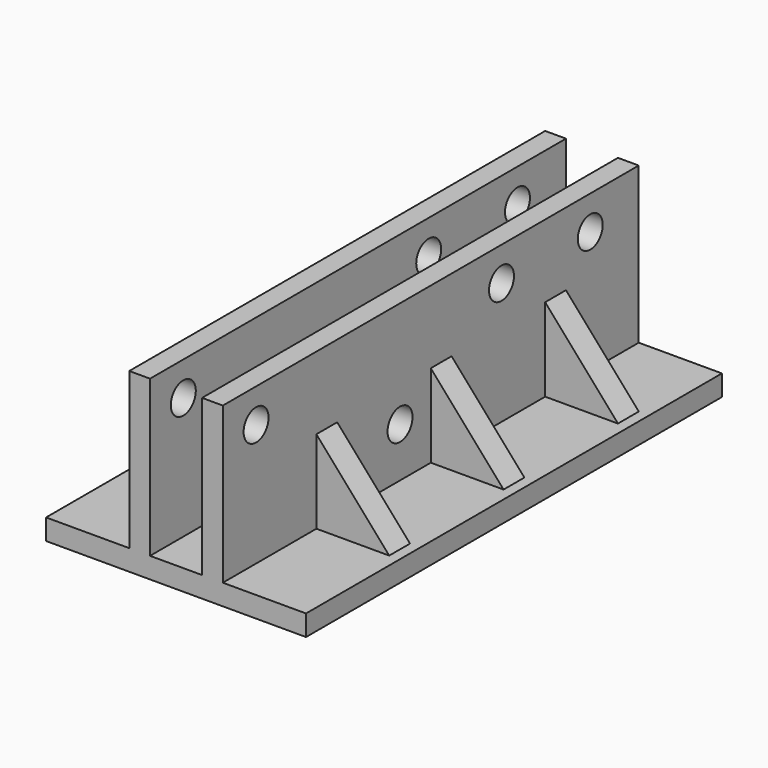
from build123d import *

# Parameters (mm, degrees)
F0_W     = 2
F0_H     = 15
F1_DEPTH = 50
F2_W     = 8
F2_H     = 2.5
F3_DEPTH = 15
F5_DEPTH = 100
F7_DEPTH = 34.4
F8_R     = 1.5
F9_DEPTH = 9


with BuildPart() as f1:
    # F0 (on Front) → F1 (new body)
    with BuildSketch(Plane.XZ):
        Polygon((12.5, 2), (12.5, 1), (15, 2), align=None)
        Polygon((0, 2), (0, 0), (10, 0), (12.5, 1), (10, 2), (8, 2), align=None)
        with Locations((9, 9.5)):
            Rectangle(F0_W, F0_H)
        Polygon((10, 2), (12.5, 1), (12.5, 2), align=None)
        Polygon((12.5, 1), (15, 0), (15, 2), align=None)
        with Locations((16, 9.5)):
            Rectangle(F0_W, F0_H)
        Polygon((15, 2), (15, 0), (25, 0), (25, 2), (17, 2), align=None)
        Polygon((12.5, 1), (10, 0), (15, 0), align=None)
    extrude(amount=F1_DEPTH)

    # F2 (on face) → F3 (join, through all)
    with BuildSketch(Plane.XY.offset(2)):
        Polygon((21, -11.25), (25, -11.25), (25, -8.75), (17, -8.75), (17, -11.25), align=None)
        Polygon((17, -25), (25, -25), (25, -23.75), (25, -22.5), (17, -22.5), align=None)
        Polygon((25, -36.25), (21, -36.25), (17, -36.25), (17, -38.75), (25, -38.75), align=None)
        Polygon((0, -25), (8, -25), (8, -22.5), (0, -22.5), (0, -23.75), align=None)
        Polygon((0, -36.25), (0, -38.75), (8, -38.75), (8, -36.25), (4, -36.25), align=None)
        with Locations((4, -10)):
            Rectangle(F2_W, F2_H)
    extrude(amount=F3_DEPTH)

    # F4 (on face) → F5 (cut)
    with BuildSketch(Plane.XZ.offset(38.75)):
        Polygon((0, 17), (0, 2), (1, 2), (8, 10), (8, 17), align=None)
    extrude(amount=-F5_DEPTH, mode=Mode.SUBTRACT)

    # F6 (on face) → F7 (cut)
    with BuildSketch(Plane.XZ.offset(38.75)):
        Polygon((17, 10), (24, 2), (25, 2), (25, 17), (17, 17), align=None)
    extrude(amount=-F7_DEPTH, mode=Mode.SUBTRACT)

    # F8 (on face) → F9 (cut, through all)
    with BuildSketch(Plane.YZ.offset(17)):
        with BuildLine():
            Line((-46.0029848111, 13.7437408806), (-44.5029848111, 13.7437408806))
            ThreePointArc((-44.5029848111, 13.7437408806), (-46.0029848111, 15.2437408806), (-47.5029848111, 13.7437408806))
            Line((-47.5029848111, 13.7437408806), (-46.0029848111, 13.7437408806))
        make_face()
        with BuildLine():
            ThreePointArc((-47.5029848111, 13.7437408806), (-46.0029848111, 12.2437408806), (-44.5029848111, 13.7437408806))
            Line((-44.5029848111, 13.7437408806), (-46.0029848111, 13.7437408806))
            Line((-46.0029848111, 13.7437408806), (-47.5029848111, 13.7437408806))
        make_face()
        with BuildLine():
            ThreePointArc((-4.3291251771, 13.7437408806), (-5.8291251771, 15.2437408806), (-7.3291251771, 13.7437408806))
            Line((-7.3291251771, 13.7437408806), (-4.3291251771, 13.7437408806))
        make_face()
        with BuildLine():
            Line((-4.3291251771, 13.7437408806), (-7.3291251771, 13.7437408806))
            ThreePointArc((-7.3291251771, 13.7437408806), (-5.8291251771, 12.2437408806), (-4.3291251771, 13.7437408806))
        make_face()
        with BuildLine():
            ThreePointArc((-15.0014732629, 13.7437408806), (-16.5014732629, 15.2437408806), (-18.0014732629, 13.7437408806))
            Line((-18.0014732629, 13.7437408806), (-16.5014732629, 13.7437408806))
            Line((-16.5014732629, 13.7437408806), (-15.0014732629, 13.7437408806))
        make_face()
        with BuildLine():
            Line((-16.5014732629, 13.7437408806), (-18.0014732629, 13.7437408806))
            ThreePointArc((-18.0014732629, 13.7437408806), (-16.5014732629, 12.2437408806), (-15.0014732629, 13.7437408806))
            Line((-15.0014732629, 13.7437408806), (-16.5014732629, 13.7437408806))
        make_face()
        with Locations((-28.6963357897, 6.7545174172)):
            Circle(F8_R)
    extrude(amount=-F9_DEPTH, mode=Mode.SUBTRACT)


solid = f1.part
